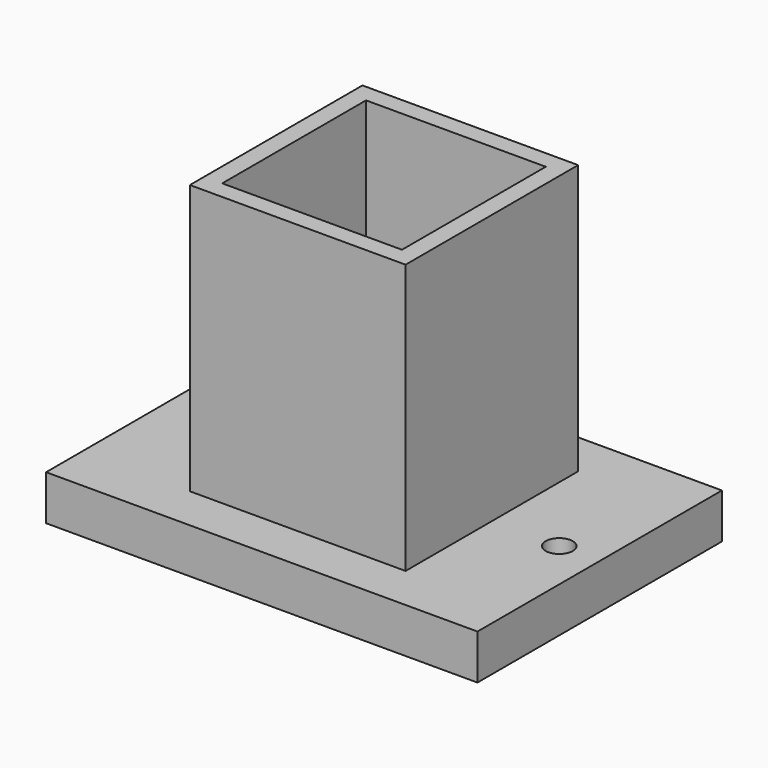
from build123d import *

# Parameters (mm, degrees)
F0_W     = 48
F0_H     = 34
F1_DEPTH = 5
F2_R     = 1.5
F3_DEPTH = 5
F4_W     = 24
F4_H     = 24
F5_DEPTH = 30
F6_W     = 20
F6_H     = 20
F7_DEPTH = 20


with BuildPart() as f1:
    # F0 (on Top) → F1 (new body)
    with BuildSketch(Plane.XY):
        Rectangle(F0_W, F0_H)
    extrude(amount=-F1_DEPTH)

    # F2 (on face) → F3 (cut)
    with BuildSketch(Plane.XY):
        with Locations((-19.5, 0)):
            Circle(F2_R)
        with BuildLine():
            ThreePointArc((21, 0), (19.5, 1.5), (18, 0))
            ThreePointArc((18, 0), (19.5, -1.5), (21, 0))
        make_face()
    extrude(amount=-F3_DEPTH, mode=Mode.SUBTRACT)

    # F4 (on face) → F5 (join)
    with BuildSketch(Plane.XY):
        Rectangle(F4_W, F4_H)
    extrude(amount=F5_DEPTH)

    # F6 (on face) → F7 (cut)
    with BuildSketch(Plane.XY.offset(30)):
        Rectangle(F6_W, F6_H)
    extrude(amount=-F7_DEPTH, mode=Mode.SUBTRACT)


solid = f1.part
